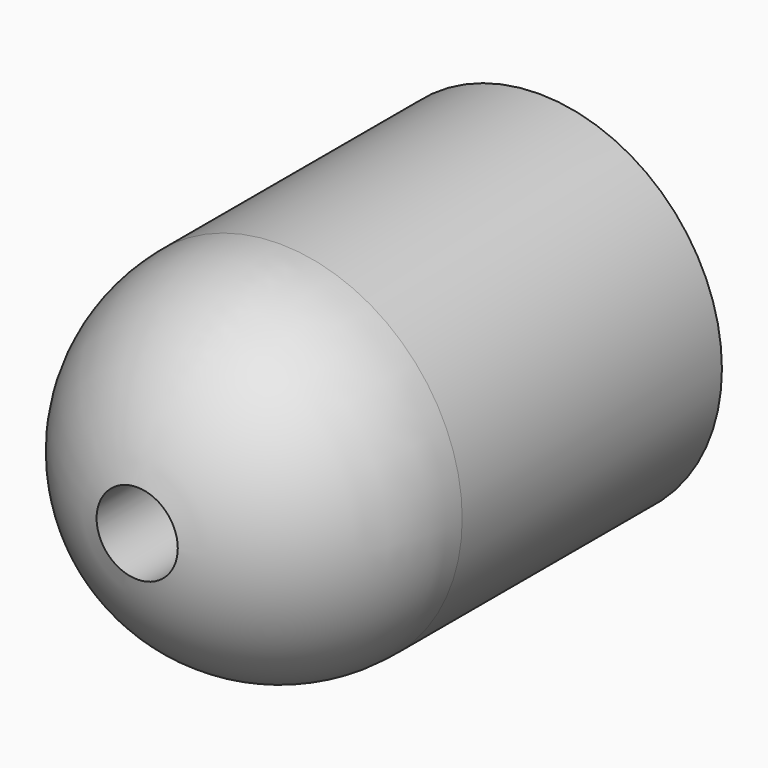
from build123d import *

# Parameters (mm, degrees)
F0_R     = 4.5
F1_DEPTH = 8
F4_R     = 1
F5_DEPTH = 12.501


with BuildPart() as f1:
    # F0 (on Front) → F1 (new body)
    with BuildSketch(Plane.XZ):
        Circle(F0_R)
    extrude(amount=F1_DEPTH)

    # F2 (on Right) → F3 (revolve)
    with BuildSketch(Plane.YZ):
        with BuildLine():
            Line((-8, 0), (-8, 4.5))
            ThreePointArc((-8, 4.5), (-11.181981, 3.181981), (-12.5, 0))
            Line((-12.5, 0), (-8, 0))
        make_face()
    revolve(axis=Axis((0, -26.326631, 0), (0, -1, 0)))

    # F4 (on Front) → F5 (cut, through all)
    with BuildSketch(Plane.XZ):
        Circle(F4_R)
    extrude(amount=F5_DEPTH, mode=Mode.SUBTRACT)


solid = f1.part
